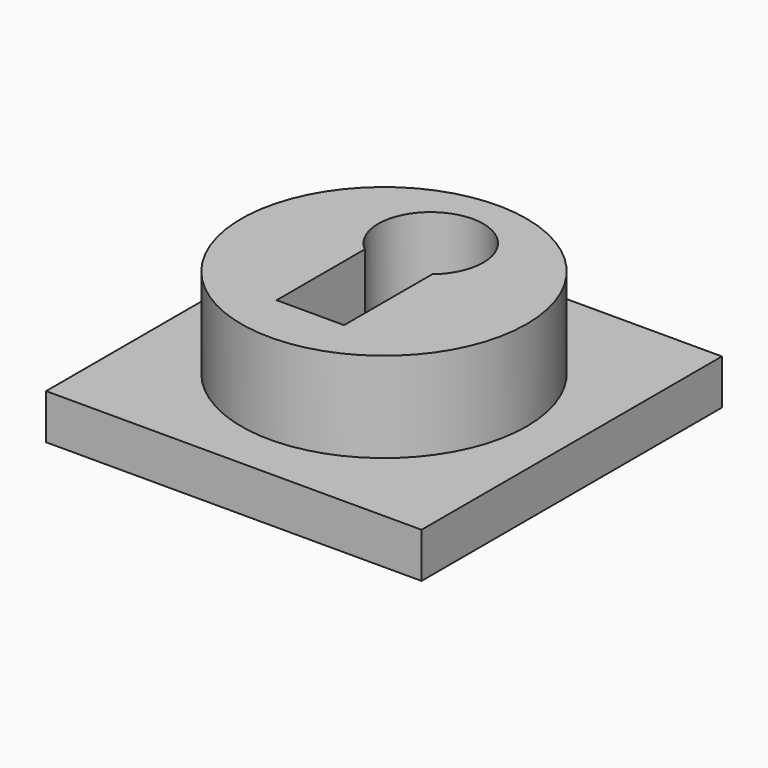
from build123d import *

# Parameters (mm, degrees)
F0_W     = 25
F0_H     = 25
F1_DEPTH = 3
F2_R     = 9.5
F3_DEPTH = 6
F4_W     = 4.4934357473
F4_H     = 5.6233623327
F5_DEPTH = 9


with BuildPart() as f1:
    # F0 (on Top) → F1 (new body)
    with BuildSketch(Plane.XY):
        with Locations((-43.7815897167, 41.7574498571)):
            Rectangle(F0_W, F0_H)
    extrude(amount=F1_DEPTH)

    # F2 (on face) → F3 (join)
    with BuildSketch(Plane.XY.offset(3)):
        with Locations((-43.7815897167, 41.7574498571)):
            Circle(F2_R)
    extrude(amount=F3_DEPTH)

    # F4 (on face) → F5 (cut)
    with BuildSketch(Plane.XY.offset(9)):
        with Locations((-43.8689409503, 38.5465395694)):
            Rectangle(F4_W, F4_H)
        with BuildLine():
            ThreePointArc((-40.3680887796, 45.7565144868), (-45.3485456086, 48.9279885254), (-46.1156588239, 43.0735256877))
            Line((-46.1156588239, 43.0735256877), (-41.6222230767, 43.0735256877))
            Line((-41.6222230767, 43.0735256877), (-41.6222230767, 43.0720988624))
            ThreePointArc((-41.6222230767, 43.0720988624), (-40.6970849984, 44.2750506769), (-40.3680887796, 45.7565144868))
        make_face()
        with BuildLine():
            ThreePointArc((-40.3680887796, 45.7565144868), (-45.3485456086, 48.9279885254), (-46.1156588239, 43.0735256877))
            Line((-46.1156588239, 43.0735256877), (-41.6222230767, 43.0735256877))
            Line((-41.6222230767, 43.0735256877), (-41.6222230767, 43.0720988624))
            ThreePointArc((-41.6222230767, 43.0720988624), (-40.6970849984, 44.2750506769), (-40.3680887796, 45.7565144868))
        make_face()
        with BuildLine():
            Line((-46.1156588239, 43.0735256877), (-46.1156588239, 41.3582207357))
            Line((-46.1156588239, 41.3582207357), (-41.6222230767, 41.3582207357))
            Line((-41.6222230767, 41.3582207357), (-41.6222230767, 43.0720988624))
            ThreePointArc((-41.6222230767, 43.0720988624), (-43.8692001537, 42.2565146632), (-46.1156588239, 43.0735256877))
        make_face()
        with BuildLine():
            Line((-41.6222230767, 43.0735256877), (-46.1156588239, 43.0735256877))
            ThreePointArc((-46.1156588239, 43.0735256877), (-43.8692001537, 42.2565146632), (-41.6222230767, 43.0720988624))
            Line((-41.6222230767, 43.0720988624), (-41.6222230767, 43.0735256877))
        make_face()
    extrude(amount=-F5_DEPTH, mode=Mode.SUBTRACT)


solid = f1.part
